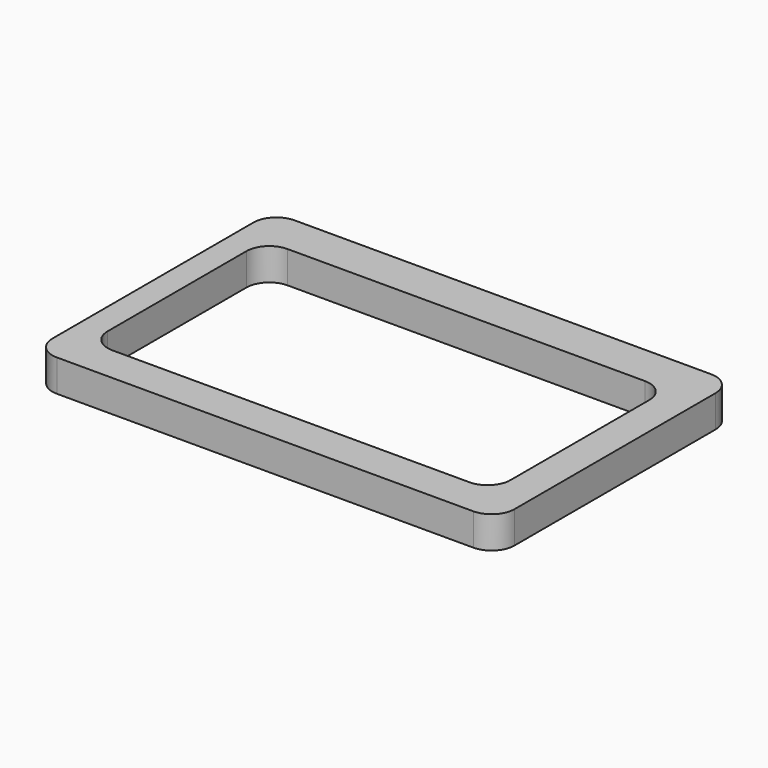
from build123d import *

# Parameters (mm, degrees)
F0_W       = 102.6703156531
F0_H       = 66.0045333207
F1_DEPTH   = 7.112
F2_W       = 89.5273201168
F2_H       = 48.7157646567
F1_FACE1_W = 102.6703156531
F1_FACE1_H = 66.0045333207
F3_DEPTH   = 7.113
F4_R       = 5.08


with BuildPart() as f1:
    # F0 (on Top) → F1 (new body)
    with BuildSketch(Plane.XY):
        with Locations((0.875947997, -11.2383794039)):
            Rectangle(F0_W, F0_H)
    extrude(amount=F1_DEPTH)

    # F2 (on face) + F1_face1 (on face) → F3 (cut, through all)
    with BuildSketch(Plane(origin=(0, 0, 0), x_dir=(1, 0, 0), z_dir=(0, 0, -1))):
        with Locations((0.0806543976, 11.7756640539)):
            Rectangle(F2_W, F2_H)
    with BuildSketch(Plane(origin=(0.875947997, -11.2383794039, 7.112), x_dir=(1, 0, 0), z_dir=(0, 0, 1))):
        Rectangle(F1_FACE1_W, F1_FACE1_H)
    extrude(amount=-F3_DEPTH, dir=(0, 0, -1), mode=Mode.SUBTRACT)

    # F4
    f4_edges = [f1.edges().sort_by_distance(p)[0] for p in [
        (-50.45921, 21.763887, 3.556),
        (52.211106, 21.763887, 3.556),
        (52.211106, -44.240646, 3.556),
        (-50.45921, -44.240646, 3.556),
        (-44.683006, -36.133546, 3.556),
        (-44.683006, 12.582218, 3.556),
        (44.844314, 12.582218, 3.556),
        (44.844314, -36.133546, 3.556),
    ]]
    fillet(f4_edges, radius=F4_R)


solid = f1.part
